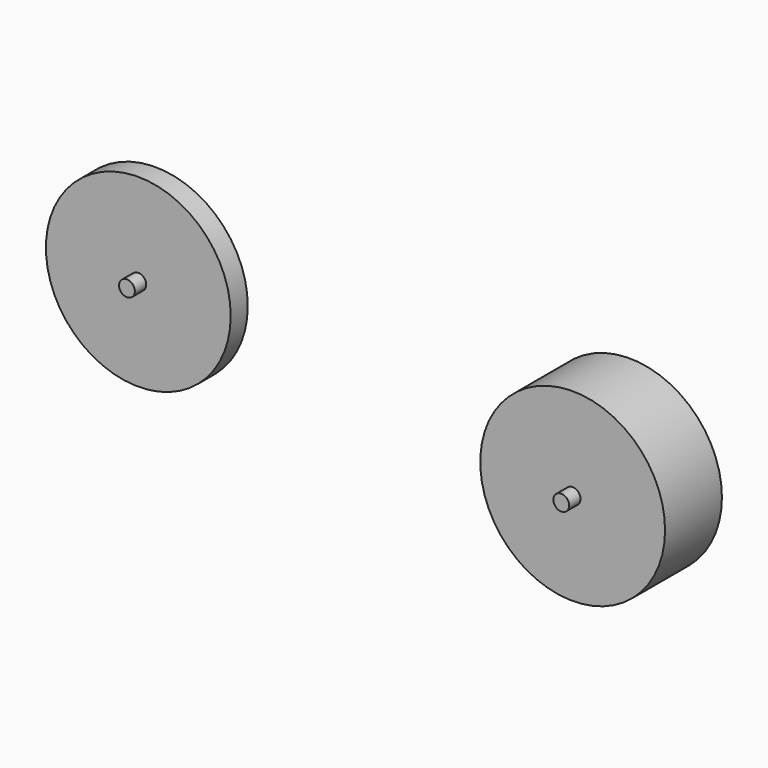
from build123d import *

# Parameters (mm, degrees)
F0_R     = 20.6375
F1_DEPTH = 4.7625
F2_R     = 1.762382
F3_DEPTH = 3.175
F4_R     = 20.6375
F6_DEPTH = 15.875
F5_R     = 1.762382
F7_DEPTH = 19.05


with BuildPart() as f1:
    # F0 (on Front) → F1 (new body)
    with BuildSketch(Plane.XZ):
        with Locations((-61.976, 0)):
            Circle(F0_R)
    extrude(amount=-F1_DEPTH)

    # F2 (on face) → F3 (join)
    with BuildSketch(Plane.XZ):
        with Locations((-61.976, 0)):
            Circle(F2_R)
    extrude(amount=F3_DEPTH)


with BuildPart() as f6:
    # F4 (on Front) → F6 (new body)
    with BuildSketch(Plane.XZ):
        with Locations((47.739774, 0)):
            Circle(F4_R)
    extrude(amount=F6_DEPTH)

    # F5 (on Front) → F7 (join)
    with BuildSketch(Plane.XZ):
        with Locations((47.736637, 0)):
            Circle(F5_R)
    extrude(amount=F7_DEPTH)


solid = Compound([f1.part, f6.part])
